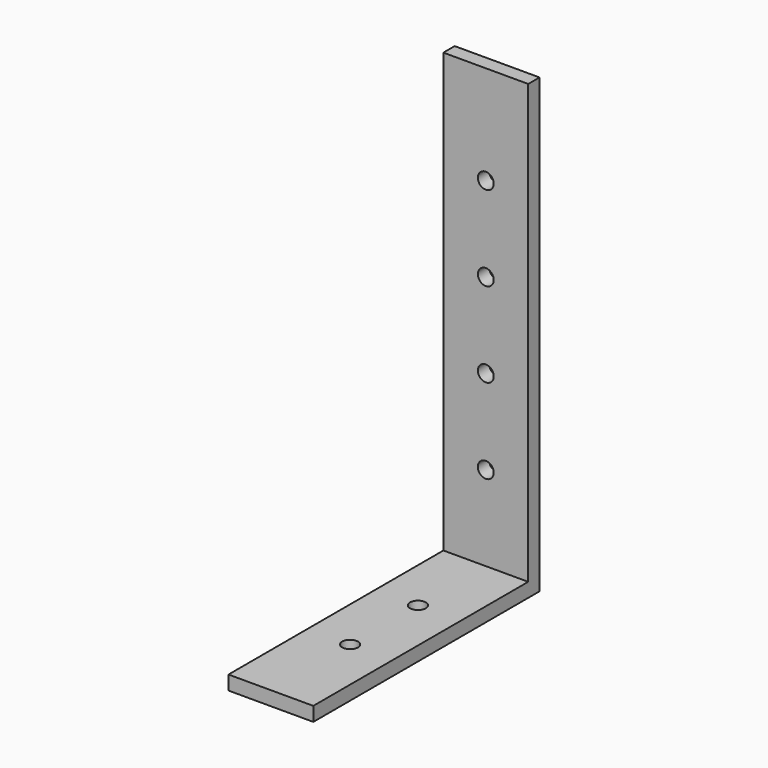
from build123d import *

# Parameters (mm, degrees)
F1_DEPTH   = 19.05
F4_D       = 7.1374
F4_ON_F2_D = 7.1374


with BuildPart() as f1:
    # F0 (on Right) → F1 (new body, symmetric)
    with BuildSketch(Plane.YZ):
        Polygon((0, 0), (0, 203.2), (-6.3499999233, 203.2), (-6.3499999233, 6.3499999233), (-127, 6.3499999233), (-127, 0), align=None)
    extrude(amount=F1_DEPTH, both=True)

    # F4 (through all)
    with Locations(Plane.XZ.offset(6.3499999233)):
        with Locations((0, 158.7499999233), (0, 120.6499999233), (0, 82.5499999233), (0, 44.4499999233)):
            Hole(F4_D / 2)

    # F4 on F2 (through all)
    with Locations(Plane.XY.offset(6.3499999233)):
        with Locations((0, -44.4499999233), (0, -82.5499999233)):
            Hole(F4_ON_F2_D / 2)


solid = f1.part
